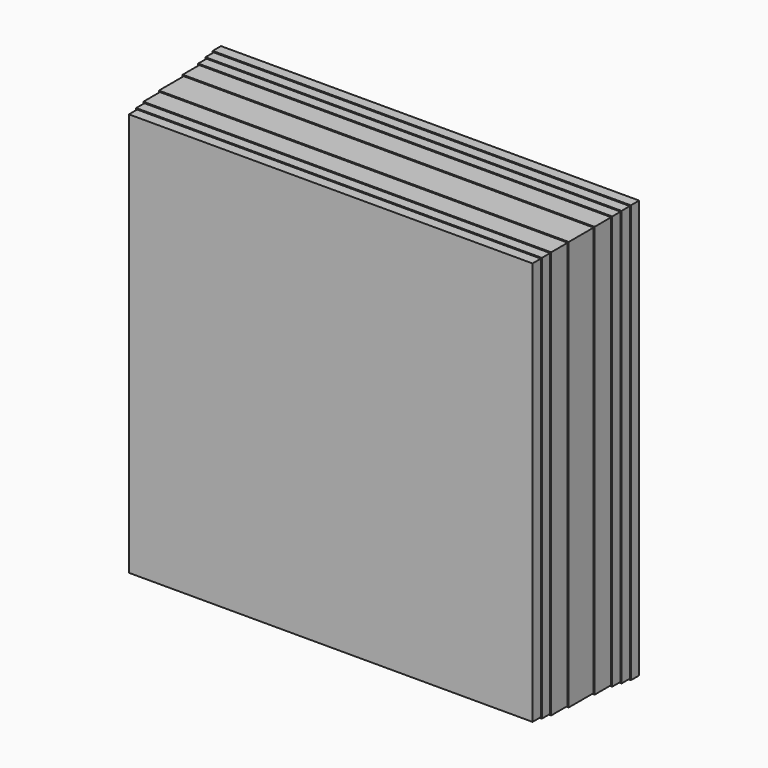
from build123d import *

# Parameters (mm, degrees)
F0_W      = 40
F0_H      = 40
F1_DEPTH  = 1
F2_W      = 39.8
F2_H      = 39.8
F3_DEPTH  = 2
F4_W      = 39.6
F4_H      = 39.6
F5_DEPTH  = 3
F6_W      = 39.4
F6_H      = 39.4
F7_DEPTH  = 1
F8_W      = 39.4
F8_H      = 39.4
F9_DEPTH  = 1
F10_W     = 39.2
F10_H     = 39.2
F11_DEPTH = 1
F12_W     = 39
F12_H     = 39
F13_DEPTH = 1
F14_W     = 40.2
F14_H     = 40.2
F15_DEPTH = 1
F16_W     = 40.4
F16_H     = 40.4
F17_DEPTH = 1


with BuildPart() as f1:
    # F0 (on Front) → F1 (new body)
    with BuildSketch(Plane.XZ):
        Rectangle(F0_W, F0_H)
    extrude(amount=F1_DEPTH)

    # F2 (on face) → F3 (join)
    with BuildSketch(Plane.XZ.offset(1)):
        Rectangle(F2_W, F2_H)
    extrude(amount=F3_DEPTH)

    # F4 (on face) → F5 (join)
    with BuildSketch(Plane.XZ.offset(3)):
        Rectangle(F4_W, F4_H)
    extrude(amount=F5_DEPTH)



with BuildPart() as f7:
    # F6 (on face) → F7 (new body)
    with BuildSketch(Plane.XZ.offset(7)):
        Rectangle(F6_W, F6_H)
    extrude(amount=F7_DEPTH)


with BuildPart() as f1_1:
    add(f1.part)

    add(f7.part)  # F9 merges F7
    # F8 (on face) → F9 (join)
    with BuildSketch(Plane.XZ.offset(6)):
        Rectangle(F8_W, F8_H)
    extrude(amount=F9_DEPTH)

    # F10 (on face) → F11 (join)
    with BuildSketch(Plane.XZ.offset(8)):
        Rectangle(F10_W, F10_H)
    extrude(amount=F11_DEPTH)

    # F12 (on face) → F13 (join)
    with BuildSketch(Plane.XZ.offset(9)):
        Rectangle(F12_W, F12_H)
    extrude(amount=F13_DEPTH)

    # F14 (on face) → F15 (join)
    with BuildSketch(Plane(origin=(0, 0, 0), x_dir=(-1, 0, 0), z_dir=(0, 1, 0))):
        Rectangle(F14_W, F14_H)
    extrude(amount=F15_DEPTH)

    # F16 (on face) → F17 (join)
    with BuildSketch(Plane(origin=(0, 1, 0), x_dir=(-1, 0, 0), z_dir=(0, 1, 0))):
        Rectangle(F16_W, F16_H)
    extrude(amount=F17_DEPTH)


solid = f1_1.part
